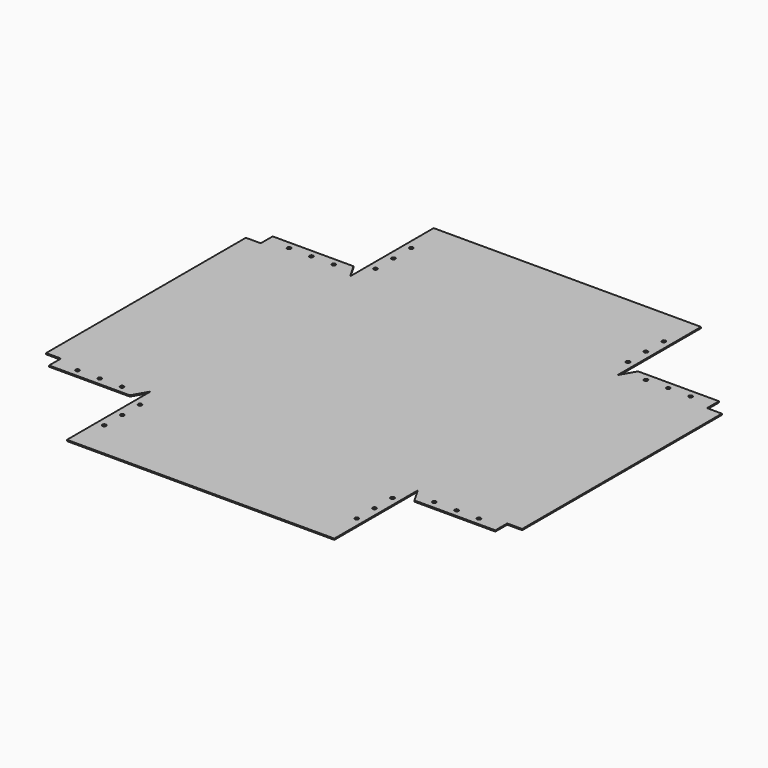
from build123d import *

# Parameters (mm, degrees)
F0_W     = 227.80625
F0_H     = 12.7
F0_W_2   = 6.35
F0_H_2   = 212.725
F0_W_3   = 76.2
F0_R     = 1.5875
F1_DEPTH = 0.508


with BuildPart() as f1:
    # F0 (on Top) → F1 (new body, symmetric)
    with BuildSketch(Plane.XY):
        with Locations((0, -188.9125)):
            Rectangle(F0_W, F0_H)
        with Locations((-199.628125, 0)):
            Rectangle(F0_W_2, F0_H_2)
        with Locations((199.628125, 0)):
            Rectangle(F0_W_2, F0_H_2)
        Polygon((-107.553125, 182.5625), (113.903125, 182.5625), (113.903125, 195.2625), (-113.903125, 195.2625), (-113.903125, 182.5625), align=None)
        with Locations((-193.278125, 0)):
            Rectangle(F0_W_2, F0_H_2)
        with Locations((193.278125, 0)):
            Rectangle(F0_W_2, F0_H_2)
        with Locations((152.003125, 0)):
            Rectangle(F0_W_3, F0_H_2)
        with Locations((-152.003125, 0)):
            Rectangle(F0_W_3, F0_H_2)
        Polygon((-121.235473, -119.0625), (-113.903125, -106.3625), (-190.103125, -106.3625), (-190.103125, -119.0625), align=None)
        with Locations((-171.053125, -112.7125)):
            Circle(F0_R, mode=Mode.SUBTRACT)
        with Locations((-152.003125, -112.7125)):
            Circle(F0_R, mode=Mode.SUBTRACT)
        with Locations((-132.953125, -112.7125)):
            Circle(F0_R, mode=Mode.SUBTRACT)
        with BuildLine():
            Line((-131.365625, 112.7125), (-117.569299, 112.7125))
            Line((-117.569299, 112.7125), (-121.235473, 119.0625))
            Line((-121.235473, 119.0625), (-190.103125, 119.0625))
            Line((-190.103125, 119.0625), (-190.103125, 112.7125))
            Line((-190.103125, 112.7125), (-172.640625, 112.7125))
            ThreePointArc((-172.640625, 112.7125), (-171.053125, 114.3), (-169.465625, 112.7125))
            Line((-169.465625, 112.7125), (-153.590625, 112.7125))
            ThreePointArc((-153.590625, 112.7125), (-152.003125, 114.3), (-150.415625, 112.7125))
            Line((-150.415625, 112.7125), (-134.540625, 112.7125))
            ThreePointArc((-134.540625, 112.7125), (-132.953125, 114.3), (-131.365625, 112.7125))
        make_face()
        Polygon((190.103125, -106.3625), (113.903125, -106.3625), (121.235473, -119.0625), (190.103125, -119.0625), align=None)
        with Locations((132.953125, -112.7125)):
            Circle(F0_R, mode=Mode.SUBTRACT)
        with Locations((152.003125, -112.7125)):
            Circle(F0_R, mode=Mode.SUBTRACT)
        with Locations((171.053125, -112.7125)):
            Circle(F0_R, mode=Mode.SUBTRACT)
        Polygon((121.235473, 119.0625), (113.903125, 106.3625), (190.103125, 106.3625), (190.103125, 119.0625), align=None)
        with Locations((132.953125, 112.7125)):
            Circle(F0_R, mode=Mode.SUBTRACT)
        with Locations((152.003125, 112.7125)):
            Circle(F0_R, mode=Mode.SUBTRACT)
        with Locations((171.053125, 112.7125)):
            Circle(F0_R, mode=Mode.SUBTRACT)
        with BuildLine():
            Line((-190.103125, 106.3625), (-113.903125, 106.3625))
            Line((-113.903125, 106.3625), (-117.569299, 112.7125))
            Line((-117.569299, 112.7125), (-131.365625, 112.7125))
            ThreePointArc((-131.365625, 112.7125), (-132.953125, 111.125), (-134.540625, 112.7125))
            Line((-134.540625, 112.7125), (-150.415625, 112.7125))
            ThreePointArc((-150.415625, 112.7125), (-152.003125, 111.125), (-153.590625, 112.7125))
            Line((-153.590625, 112.7125), (-169.465625, 112.7125))
            ThreePointArc((-169.465625, 112.7125), (-171.053125, 111.125), (-172.640625, 112.7125))
            Line((-172.640625, 112.7125), (-190.103125, 112.7125))
            Line((-190.103125, 112.7125), (-190.103125, 106.3625))
        make_face()
        with BuildLine():
            Line((-113.903125, 106.3625), (-107.553125, 106.3625))
            Line((-107.553125, 106.3625), (-107.553125, 123.825))
            ThreePointArc((-107.553125, 123.825), (-109.140625, 125.4125), (-107.553125, 127))
            Line((-107.553125, 127), (-107.553125, 142.875))
            ThreePointArc((-107.553125, 142.875), (-109.140625, 144.4625), (-107.553125, 146.05))
            Line((-107.553125, 146.05), (-107.553125, 161.925))
            ThreePointArc((-107.553125, 161.925), (-109.140625, 163.5125), (-107.553125, 165.1))
            Line((-107.553125, 165.1), (-107.553125, 182.5625))
            Line((-107.553125, 182.5625), (-113.903125, 182.5625))
            Line((-113.903125, 182.5625), (-113.903125, 119.0625))
            Line((-113.903125, 119.0625), (-113.903125, 112.7125))
            Line((-113.903125, 112.7125), (-113.903125, 106.3625))
        make_face()
        Polygon((113.903125, -119.0625), (113.903125, -106.3625), (-113.903125, -106.3625), (-113.903125, -119.0625), (-113.903125, -182.5625), (113.903125, -182.5625), align=None)
        with Locations((-107.553125, -163.5125)):
            Circle(F0_R, mode=Mode.SUBTRACT)
        with Locations((-107.553125, -144.4625)):
            Circle(F0_R, mode=Mode.SUBTRACT)
        with Locations((-107.553125, -125.4125)):
            Circle(F0_R, mode=Mode.SUBTRACT)
        with Locations((107.553125, -163.5125)):
            Circle(F0_R, mode=Mode.SUBTRACT)
        with Locations((107.553125, -144.4625)):
            Circle(F0_R, mode=Mode.SUBTRACT)
        with Locations((107.553125, -125.4125)):
            Circle(F0_R, mode=Mode.SUBTRACT)
        with BuildLine():
            Line((-107.553125, 106.3625), (113.903125, 106.3625))
            Line((113.903125, 106.3625), (113.903125, 119.0625))
            Line((113.903125, 119.0625), (113.903125, 182.5625))
            Line((113.903125, 182.5625), (-107.553125, 182.5625))
            Line((-107.553125, 182.5625), (-107.553125, 165.1))
            ThreePointArc((-107.553125, 165.1), (-106.430593, 164.635032), (-105.965625, 163.5125))
            ThreePointArc((-105.965625, 163.5125), (-106.430593, 162.389968), (-107.553125, 161.925))
            Line((-107.553125, 161.925), (-107.553125, 146.05))
            ThreePointArc((-107.553125, 146.05), (-106.430593, 145.585032), (-105.965625, 144.4625))
            ThreePointArc((-105.965625, 144.4625), (-106.430593, 143.339968), (-107.553125, 142.875))
            Line((-107.553125, 142.875), (-107.553125, 127))
            ThreePointArc((-107.553125, 127), (-106.430593, 126.535032), (-105.965625, 125.4125))
            ThreePointArc((-105.965625, 125.4125), (-106.430593, 124.289968), (-107.553125, 123.825))
            Line((-107.553125, 123.825), (-107.553125, 106.3625))
        make_face()
        with Locations((107.553125, 125.4125)):
            Circle(F0_R, mode=Mode.SUBTRACT)
        with Locations((107.553125, 144.4625)):
            Circle(F0_R, mode=Mode.SUBTRACT)
        with Locations((107.553125, 163.5125)):
            Circle(F0_R, mode=Mode.SUBTRACT)
        Polygon((113.903125, -106.3625), (113.903125, 106.3625), (-107.553125, 106.3625), (-113.903125, 106.3625), (-113.903125, -106.3625), align=None)
    extrude(amount=F1_DEPTH, both=True)


solid = f1.part
